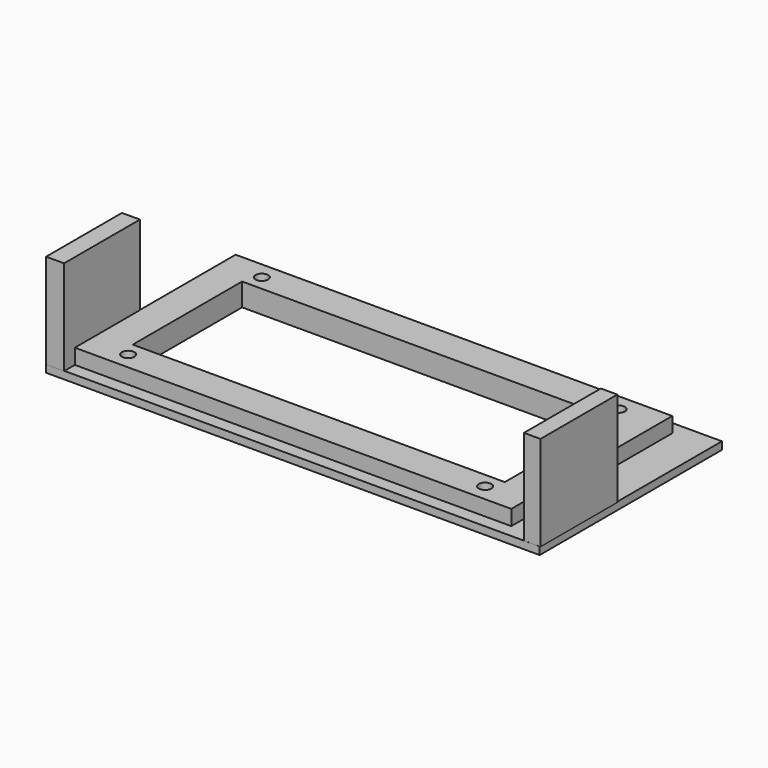
from build123d import *

# Parameters (mm, degrees)
F0_W     = 115
F0_H     = 53
F0_W_2   = 98
F0_H_2   = 36
F1_DEPTH = 4
F2_W     = 130
F2_H     = 60
F3_DEPTH = 2
F4_DEPTH = 2.001
F5_D     = 3.3
F5_DEPTH = 4.001
F6_W     = 4.3469965458
F6_H     = 25.2998827054
F6_W_2   = 4.7431737185
F6_H_2   = 24.9695125967
F7_DEPTH = 25


with BuildPart() as f1:
    # F0 (on Top) → F1 (new body)
    with BuildSketch(Plane.XY):
        with Locations((-9.9708801619, 5.0761482663)):
            Rectangle(F0_W, F0_H)
        with Locations((-9.9708801619, 5.0761482663)):
            Rectangle(F0_W_2, F0_H_2, mode=Mode.SUBTRACT)
    extrude(amount=F1_DEPTH)

    # F2 (on Top) → F3 (join)
    with BuildSketch(Plane.XY):
        with Locations((-7.2538307309, 5.1540893316)):
            Rectangle(F2_W, F2_H)
    extrude(amount=-F3_DEPTH)

    # F0 (on Top) → F4 (cut, through all)
    with BuildSketch(Plane.XY):
        with Locations((-9.9708801619, 5.0761482663)):
            Rectangle(F0_W_2, F0_H_2)
    extrude(amount=-F4_DEPTH, mode=Mode.SUBTRACT)

    # F5 (through all, one way)
    with BuildSketch(Plane(origin=(0, 0, 0), x_dir=(1, 0, 0), z_dir=(0, 0, -1))):
        with Locations((-56.9708801619, -27.0761482663), (-56.9708801619, 16.9238517337), (37.0291198381, 16.9238517337), (37.0291198381, -27.0761482663)):
            Circle(F5_D / 2)
    extrude(amount=-F5_DEPTH, mode=Mode.SUBTRACT)

    # F6 (on Top) → F7 (join)
    with BuildSketch(Plane.XY):
        with Locations((55.7790957391, -12.1861611478)):
            Rectangle(F6_W, F6_H)
        with Locations((-69.787338376, -12.4847562984)):
            Rectangle(F6_W_2, F6_H_2)
    extrude(amount=F7_DEPTH)


solid = f1.part
